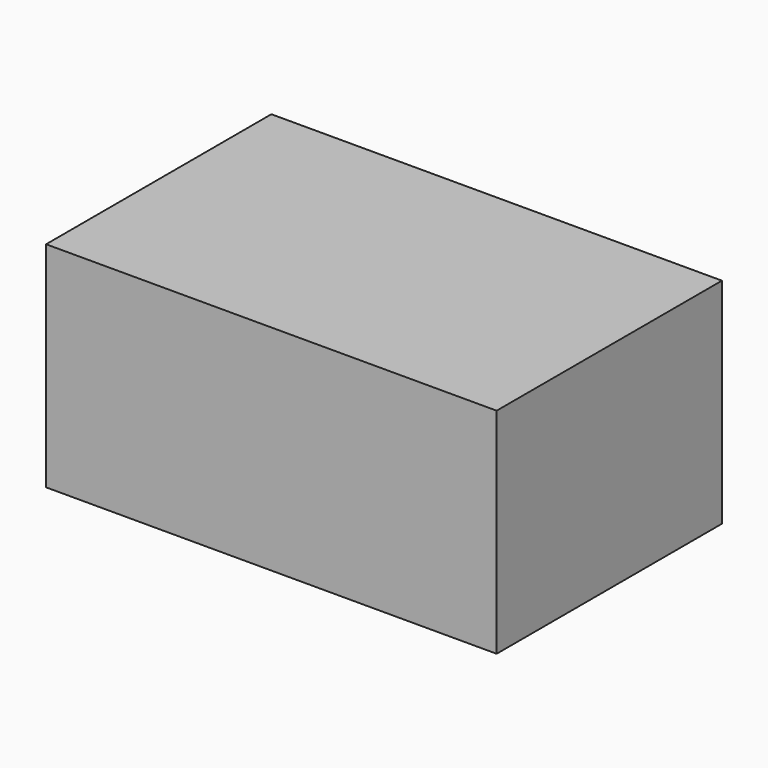
from build123d import *

# Parameters (mm, degrees)
SKETCH_W  = 2
SKETCH_H  = 1.25
PAD_DEPTH = 0.95


with BuildPart() as part:
    # Sketch → Pad (new body)
    with BuildSketch(Plane.XY):
        Rectangle(SKETCH_W, SKETCH_H)
    extrude(amount=PAD_DEPTH)


solid = part.part
